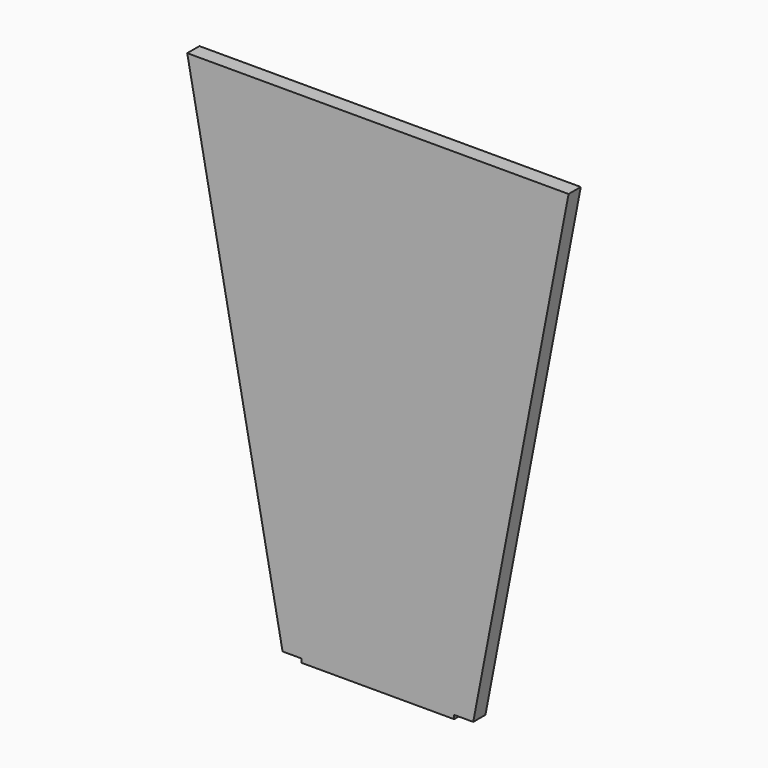
from build123d import *

# Parameters (mm, degrees)
F1_DEPTH = 4


with BuildPart() as f1:
    # F0 (on Front) → F1 (new body)
    with BuildSketch(Plane.XZ):
        Polygon((0, -130), (0, 0), (-50, 0), (-25, -130), (-20, -130), align=None)
        Polygon((50, 0), (0, 0), (0, -130), (20, -130), (25, -130), align=None)
        Polygon((20, -130), (0, -130), (-20, -130), (-20, -131), (20, -131), align=None)
    extrude(amount=F1_DEPTH)


solid = f1.part
